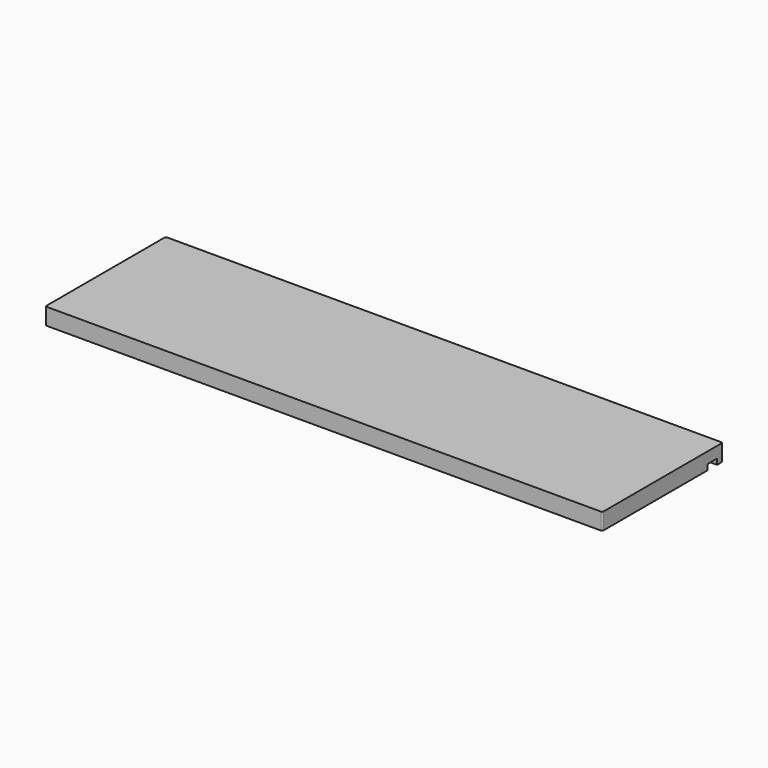
from build123d import *

# Parameters (mm, degrees)
F1_DEPTH = 200
F2_R     = 1


with BuildPart() as f1:
    # F0 (on Right) → F1 (new body, symmetric)
    with BuildSketch(Plane.YZ):
        Polygon((108, 12), (0, 12), (0, 0), (94.5, 0), (94.5, 4), (103, 4), (103, 0), (108, 0), align=None)
    extrude(amount=F1_DEPTH, both=True)

    # F2
    f2_edges = [f1.edges().sort_by_distance(p)[0] for p in [
        (200, 0, 6),
        (200, 108, 6),
        (-200, 108, 6),
        (-200, 0, 6),
    ]]
    fillet(f2_edges, radius=F2_R)


solid = f1.part
